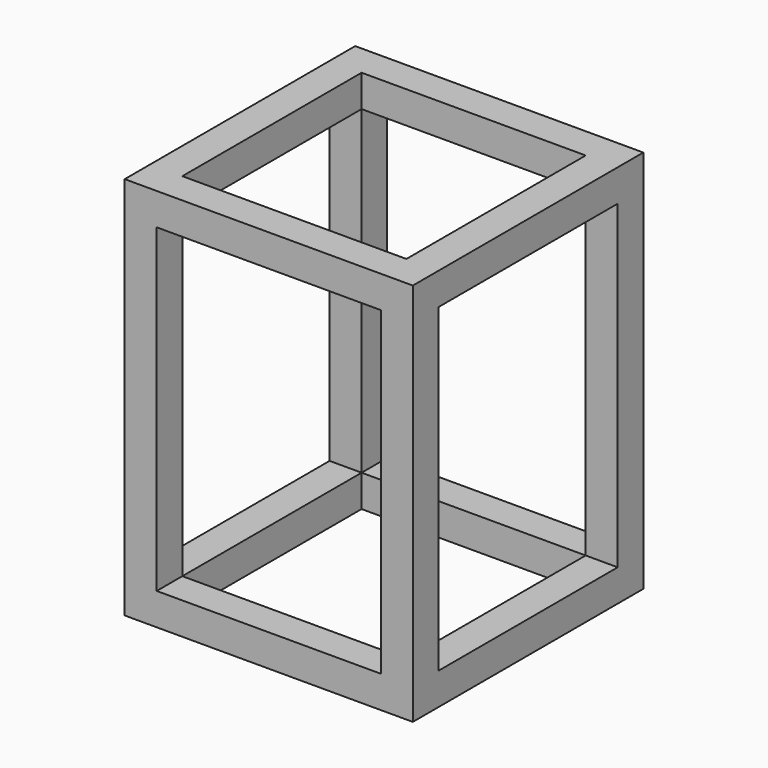
from build123d import *

# Parameters (mm, degrees)
F0_W     = 914.4
F0_H     = 1219.2
F0_W_2   = 711.2
F0_H_2   = 1016
F1_DEPTH = 914.4
F2_W     = 711.2
F2_H     = 711.2
F3_DEPTH = 1219.2
F4_W     = 711.2
F4_H     = 1016
F5_DEPTH = 914.4


with BuildPart() as f1:
    # F0 (on Front) → F1 (new body)
    with BuildSketch(Plane.XZ):
        Rectangle(F0_W, F0_H)
        Rectangle(F0_W_2, F0_H_2, mode=Mode.SUBTRACT)
    extrude(amount=-F1_DEPTH)

    # F2 (on face) → F3 (cut)
    with BuildSketch(Plane.XY.offset(609.6)):
        with Locations((0, 457.2)):
            Rectangle(F2_W, F2_H)
    extrude(amount=-F3_DEPTH, mode=Mode.SUBTRACT)

    # F4 (on face) → F5 (cut)
    with BuildSketch(Plane(origin=(-457.2, 0, 0), x_dir=(0, -1, 0), z_dir=(-1, 0, 0))):
        with Locations((-457.2, 0)):
            Rectangle(F4_W, F4_H)
    extrude(amount=-F5_DEPTH, mode=Mode.SUBTRACT)


solid = f1.part
